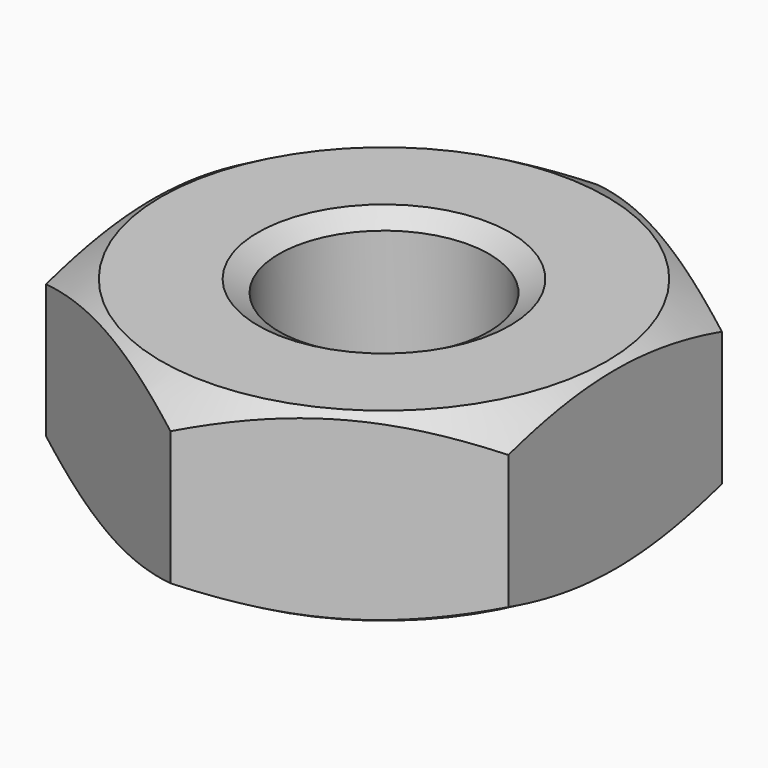
from build123d import *

# Parameters (mm, degrees)
SKETCH001_R  = 3.5
POCKET_DEPTH = 2.2


with BuildPart() as part:
    # Sketch → Revolution (revolve)
    with BuildSketch(Plane.XZ):
        Polygon((1.5, 0), (1.25, 0.144338), (1.25, 2.055662), (1.5, 2.2), (2.65, 2.2), (3.5, 1.709252), (3.5, 0.490748), (2.65, 0), align=None)
    revolve(axis=Axis((0, 0, 0), (0, 0, 1)))

    # Sketch001 → Pocket (cut)
    with BuildSketch(Plane(origin=(0, 0, 2.2), x_dir=(-1, 0, 0), z_dir=(0, 0, 1))):
        Circle(SKETCH001_R)
        Polygon((-2.75, 1.587713), (-2.75, -1.587713), (0, -3.175426), (2.75, -1.587713), (2.75, 1.587713), (0, 3.175426), align=None, mode=Mode.SUBTRACT)
    extrude(amount=-POCKET_DEPTH, mode=Mode.SUBTRACT)


solid = part.part
